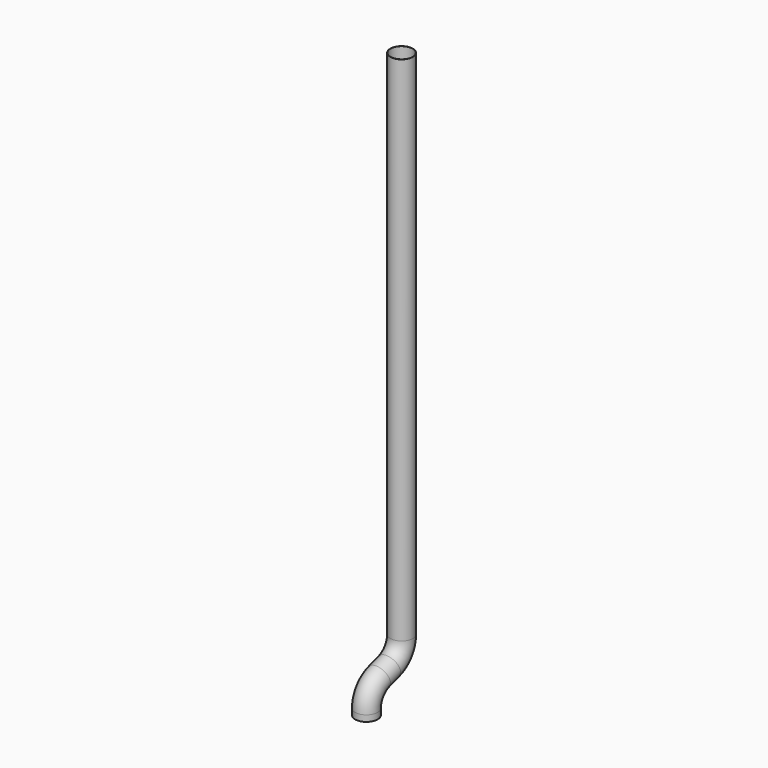
from build123d import *

# Parameters (mm, degrees)
F1_R   = 50
F1_R_2 = 49


with BuildPart() as f2:
    # F2: sweep along a path in F0
    with BuildLine(Plane.YZ) as f2_path:
        Line((0, 0), (0, -2264.158614))
        ThreePointArc((0, -2264.158614), (-19.098301, -2322.937139), (-69.098301, -2359.264266))
        Line((-69.098301, -2359.264266), (-125.371699, -2377.548601))
        ThreePointArc((-125.371699, -2377.548601), (-175.371699, -2413.875728), (-194.47, -2472.654253))
        Line((-194.47, -2472.654253), (-194.47, -2500))
    # F1 (on Top) → F2 (sweep)
    with BuildSketch(Plane.XY):
        Circle(F1_R)
        Circle(F1_R_2, mode=Mode.SUBTRACT)
    sweep(path=f2_path.line)


solid = f2.part
